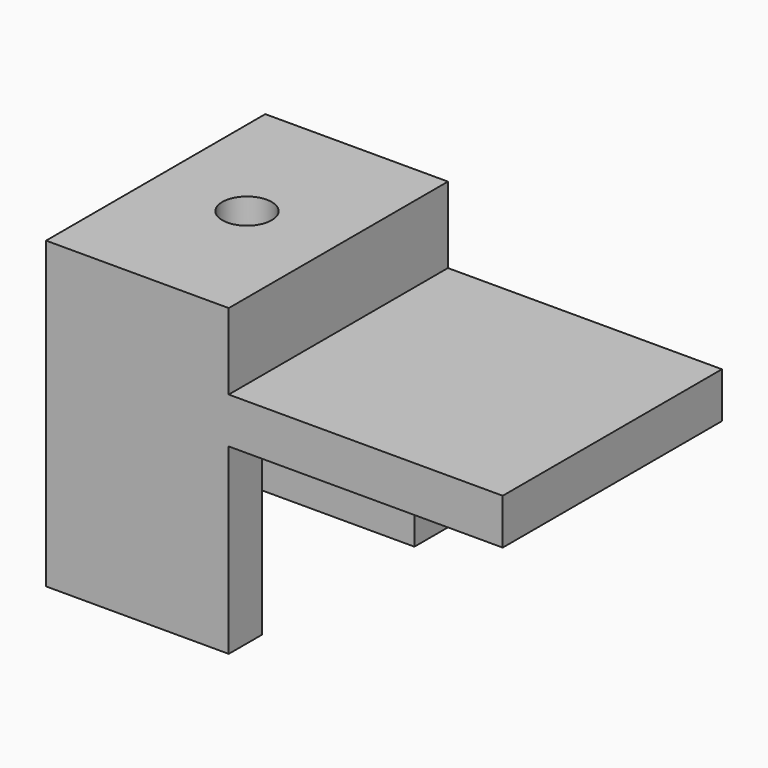
from build123d import *

# Parameters (mm, degrees)
F0_W     = 19.05
F0_H     = 28.575
F1_DEPTH = 31.75
F2_W     = 19.84375
F2_H     = 19.05
F3_DEPTH = 19.051
F4_W     = 28.575
F4_H     = 4.7625
F5_DEPTH = 38.1
F6_R     = 2.579688
F7_DEPTH = 31.751


with BuildPart() as f1:
    # F0 (on Top) → F1 (new body)
    with BuildSketch(Plane.XY):
        Rectangle(F0_W, F0_H)
    extrude(amount=F1_DEPTH)

    # F2 (on face) → F3 (cut, through all)
    with BuildSketch(Plane.YZ.offset(9.525)):
        with Locations((0, 9.525)):
            Rectangle(F2_W, F2_H)
    extrude(amount=-F3_DEPTH, mode=Mode.SUBTRACT)

    # F4 (on Right) → F5 (join)
    with BuildSketch(Plane.YZ):
        with Locations((0, 21.43125)):
            Rectangle(F4_W, F4_H)
    extrude(amount=F5_DEPTH)

    # F6 (on face) → F7 (cut, through all)
    with BuildSketch(Plane.XY.offset(31.75)):
        Circle(F6_R)
    extrude(amount=-F7_DEPTH, mode=Mode.SUBTRACT)


solid = f1.part
